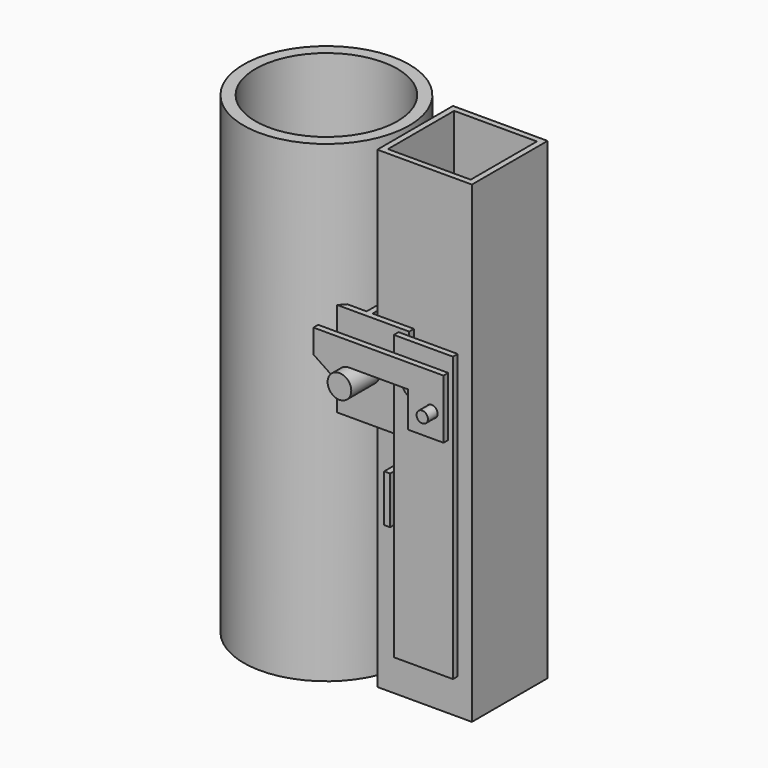
from build123d import *

# Parameters (mm, degrees)
F1_DEPTH  = 50.8
F2_R      = 3.175
F3_DEPTH  = 16.5174802667
F4_R      = 44.45
F4_R_2    = 38.1
F5_DEPTH  = 127
F4_W      = 50.8
F4_H      = 50.8
F4_W_2    = 44.45
F4_H_2    = 44.45
F6_R      = 6.35
F7_DEPTH  = 19.05
F8_R      = 6.35
F8_W      = 3.175
F8_H      = 25.4
F9_DEPTH  = 15.24
F11_START = 9.525
F10_W     = 19.05
F10_H     = 19.05
F10_R     = 3.175
F11_DEPTH = 3.175
F12_START = 9.525
F8_R_2    = 7.62
F12_DEPTH = 3.175
F13_R     = 3.048
F14_DEPTH = 12.7


with BuildPart() as f1:
    # F0 (on Top) → F1 (new body)
    with BuildSketch(Plane.XY):
        with BuildLine():
            Line((0, 28.575), (0, 31.75))
            Line((0, 31.75), (-13.3414802667, 31.75))
            ThreePointArc((-13.3414802667, 31.75), (-11.8330437127, 30.1982890666), (-10.4019181891, 28.575))
            Line((-10.4019181891, 28.575), (0, 28.575))
        make_face()
        Polygon((25.4, 28.575), (25.4, 31.75), (0, 31.75), (0, 28.575), (0, -28.575), (0, -31.75), (25.4, -31.75), (25.4, -28.575), (3.175, -28.575), (3.175, 28.575), align=None)
        with BuildLine():
            Line((0, -31.75), (0, -28.575))
            Line((0, -28.575), (-10.4019181891, -28.575))
            ThreePointArc((-10.4019181891, -28.575), (-11.8330437127, -30.1982890666), (-13.3414802667, -31.75))
            Line((-13.3414802667, -31.75), (0, -31.75))
        make_face()
    extrude(amount=F1_DEPTH)

    # F2 (on face) → F3 (cut, through all)
    with BuildSketch(Plane.YZ.offset(3.175)):
        with Locations((0, 25.4)):
            Circle(F2_R)
    extrude(amount=-F3_DEPTH, mode=Mode.SUBTRACT)

    # F6 (on face) → F7 (join)
    with BuildSketch(Plane.XZ.offset(31.75)):
        with Locations((3.175, 25.4)):
            Circle(F6_R)
    extrude(amount=F7_DEPTH)


with BuildPart() as f5:
    # F4 (on Top) → F5 (new body, symmetric)
    with BuildSketch(Plane.XY):
        with Locations((-44.45, 0)):
            Circle(F4_R)
        with Locations((-44.45, 0)):
            Circle(F4_R_2, mode=Mode.SUBTRACT)
    extrude(amount=F5_DEPTH, both=True)


with BuildPart() as f5b:
    # F4 (on Top) → F5, piece 2 (new body, symmetric)
    with BuildSketch(Plane.XY):
        with Locations((28.575, 0)):
            Rectangle(F4_W, F4_H)
        with Locations((28.575, 0)):
            Rectangle(F4_W_2, F4_H_2, mode=Mode.SUBTRACT)
    extrude(amount=F5_DEPTH, both=True)

    # F8 (on face) → F9 (join)
    with BuildSketch(Plane.XZ.offset(25.4)):
        with Locations((34.925, 31.75)):
            Circle(F8_R)
        with Locations((20.6375, -26.4134507954)):
            Rectangle(F8_W, F8_H)
    extrude(amount=F9_DEPTH)


with BuildPart() as f11:
    # F10 (on face) → F11 (new body)
    with BuildSketch(Plane.XZ.offset(31.75).offset(F11_START)):
        Polygon((-13.3414802667, 30.0314808332), (-13.3414802667, 44.45), (-15.875, 44.45), (-15.875, 31.75), align=None)
        Polygon((25.4, 31.75), (34.925, 31.75), (53.975, 31.75), (53.975, 44.45), (25.4, 44.45), align=None)
        with BuildLine():
            Line((3.175, 31.75), (25.4, 31.75))
            Line((25.4, 31.75), (25.4, 44.45))
            Line((25.4, 44.45), (-13.3414802667, 44.45))
            Line((-13.3414802667, 44.45), (-13.3414802667, 30.0314808332))
            Line((-13.3414802667, 30.0314808332), (-2.5905420916, 22.7389805731))
            ThreePointArc((-2.5905420916, 22.7389805731), (-2.173830403, 28.8223549377), (3.175, 31.75))
        make_face()
        with Locations((44.45, 22.225)):
            Rectangle(F10_W, F10_H)
        with Locations((47.625, 25.4)):
            Circle(F10_R, mode=Mode.SUBTRACT)
    extrude(amount=F11_DEPTH)


with BuildPart() as f12:
    # F8 (on face) → F12 (new body)
    with BuildSketch(Plane.XZ.offset(25.4).offset(F12_START)):
        Polygon((53.975, -101.6), (53.975, 50.8), (22.225, 50.8), (22.225, -13.7134507954), (22.225, -39.1134507954), (22.225, -101.6), align=None)
        with Locations((34.925, 31.75)):
            Circle(F8_R_2, mode=Mode.SUBTRACT)
    extrude(amount=F12_DEPTH)

    # F13 (on face) → F14 (join)
    with BuildSketch(Plane.XZ.offset(38.1)):
        with Locations((47.625, 25.4)):
            Circle(F13_R)
    extrude(amount=F14_DEPTH)


solid = Compound([f1.part, f5.part, f5b.part, f11.part, f12.part])
